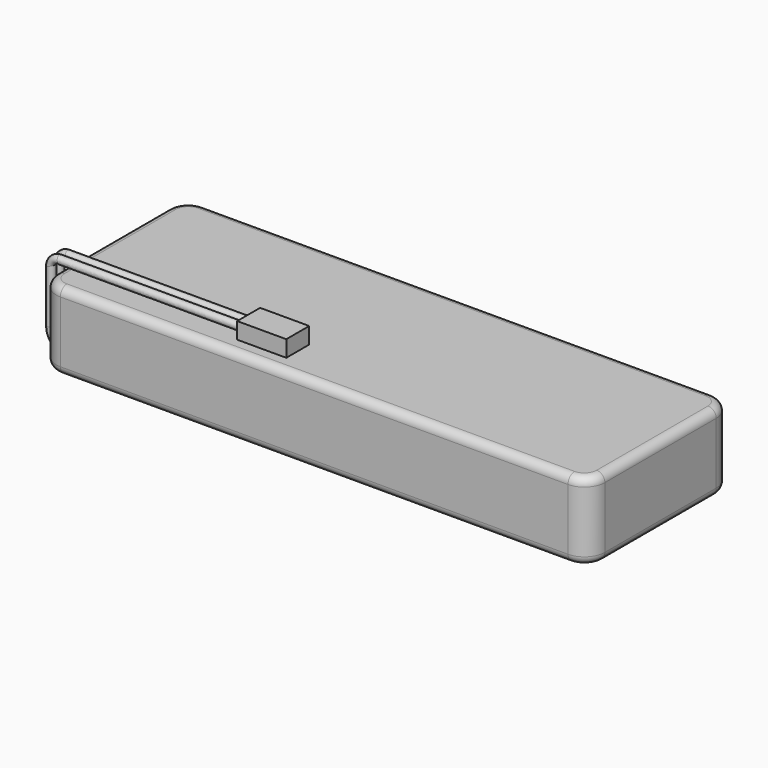
from build123d import *

# Parameters (mm, degrees)
F0_W      = 134
F0_H      = 44
F1_DEPTH  = 19
F2_R      = 5
F3_R      = 2
F6_R      = 1
F9_W      = 7
F9_H      = 4
F10_DEPTH = 12


with BuildPart() as f1:
    # F0 (on Top) → F1 (new body)
    with BuildSketch(Plane.XY):
        with Locations((67, 22)):
            Rectangle(F0_W, F0_H)
    extrude(amount=F1_DEPTH)

    # F2
    f2_edges = [f1.edges().sort_by_distance(p)[0] for p in [
        (0, 0, 9.5),
        (134, 0, 9.5),
        (134, 44, 9.5),
        (0, 44, 9.5),
    ]]
    fillet(f2_edges, radius=F2_R)

    # F3
    f3_edges = [f1.edges().sort_by_distance(p)[0] for p in [
        (67, 44, 19),
        (67, 44, 0),
    ]]
    fillet(f3_edges, radius=F3_R)

    # F7: sweep along a path in F4
    with BuildLine(Plane.XZ) as f7_path:
        Line((45, 22), (0, 22))
        ThreePointArc((0, 22), (-2.1213203436, 21.1213203436), (-3, 19))
        Line((-3, 19), (-3, 6))
        ThreePointArc((-3, 6), (-1.9732723615, 2.964690009), (0.6852426967, 1.1759546817))
        Line((0.6852426967, 1.1759546817), (5, 0))
    # F6 (on offset) → F7 (sweep)
    with BuildSketch(Plane.YZ.offset(5)):
        with Locations((6, 1)):
            Circle(F6_R)
        with Locations((8.5, 1)):
            Circle(F6_R)
    sweep(path=f7_path.line)

    # F9 (on offset) → F10 (join)
    with BuildSketch(Plane.YZ.offset(45)):
        with Locations((7.4815807267, 21.2037162855)):
            Rectangle(F9_W, F9_H)
    extrude(amount=F10_DEPTH)


solid = f1.part
